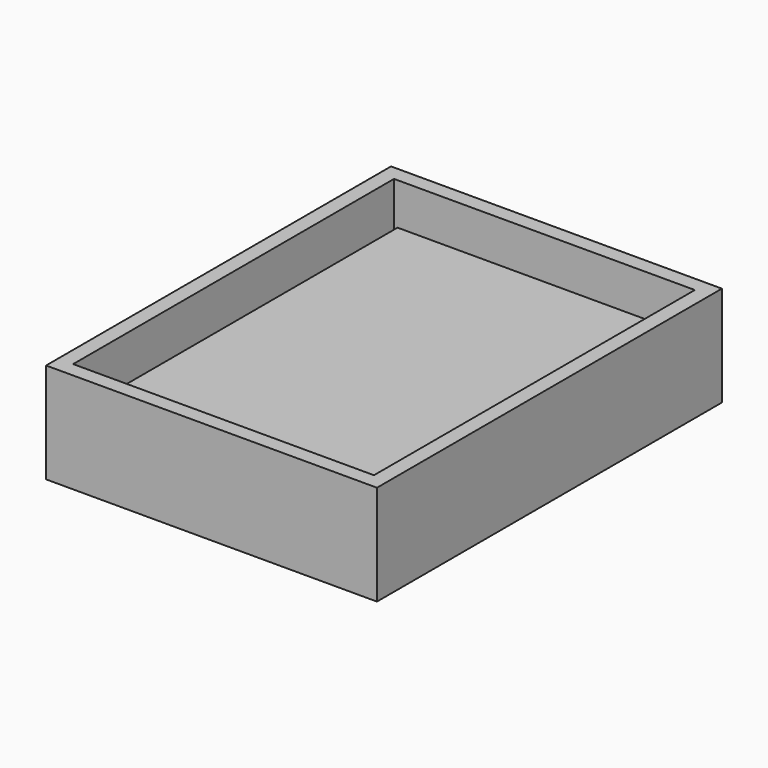
from build123d import *

# Parameters (mm, degrees)
F0_W     = 76.2
F0_H     = 101.6
F1_DEPTH = 12.7
F0_W_2   = 83.82
F0_H_2   = 109.22
F2_DEPTH = 25.4
F3_W     = 67.31
F3_H     = 92.71
F4_DEPTH = 5.08
F5_W     = 76.2
F5_H     = 2.54
F6_DEPTH = 5.08


with BuildPart() as f1:
    # F0 (on Top) → F1 (new body)
    with BuildSketch(Plane.XY):
        Rectangle(F0_W, F0_H)
    extrude(amount=F1_DEPTH)

    # F0 (on Top) → F2 (join)
    with BuildSketch(Plane.XY):
        Rectangle(F0_W_2, F0_H_2)
        Rectangle(F0_W, F0_H, mode=Mode.SUBTRACT)
    extrude(amount=F2_DEPTH)

    # F3 (on face) → F4 (join)
    with BuildSketch(Plane.XY.offset(12.7)):
        Rectangle(F3_W, F3_H)
    extrude(amount=F4_DEPTH)

    # F5 (on face) → F6 (cut)
    with BuildSketch(Plane.XY.offset(12.7)):
        with Locations((0, 49.53)):
            Rectangle(F5_W, F5_H)
    extrude(amount=-F6_DEPTH, mode=Mode.SUBTRACT)


solid = f1.part
